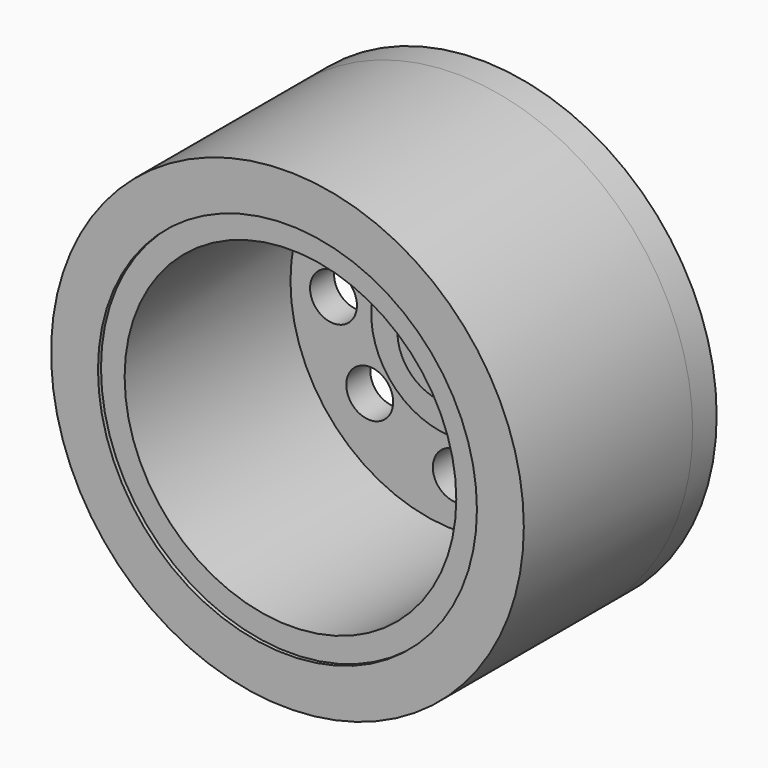
from build123d import *

# Parameters (mm, degrees)
F0_R      = 16.002
F1_DEPTH  = 2.032
F3_R      = 12.827
F3_R_2    = 11.2268
F4_DEPTH  = 0.254
F2_R      = 1.5875
F5_DEPTH  = 2.032
F6_R      = 5.55625
F7_DEPTH  = 0.254
F8_R      = 3.175
F9_DEPTH  = 0.762
F10_R     = 0.381
F11_DEPTH = 0.508
F12_DEPTH = 14.2875


with BuildPart() as f1:
    # F0 (on Front) → F1 (new body)
    with BuildSketch(Plane.XZ):
        Circle(F0_R)
    extrude(amount=-F1_DEPTH)

    # F3 (on face) → F4 (cut)
    with BuildSketch(Plane.XZ):
        Circle(F3_R)
        Circle(F3_R_2, mode=Mode.SUBTRACT)
    extrude(amount=-F4_DEPTH, mode=Mode.SUBTRACT)

    # F2 (on face) → F5 (cut)
    with BuildSketch(Plane.XZ):
        with Locations((0, -7.9695228487)):
            Circle(F2_R)
        with Locations((-5.8604669757, -4.9584284425)):
            Circle(F2_R)
        with BuildLine():
            Line((-6.7264510825, 0), (-9.9014510825, 0))
            ThreePointArc((-9.9014510825, 0), (-8.3139510825, -1.5875), (-6.7264510825, 0))
        make_face()
        with BuildLine():
            ThreePointArc((-6.7264510825, 0), (-8.3139510825, 1.5875), (-9.9014510825, 0))
            Line((-9.9014510825, 0), (-6.7264510825, 0))
        make_face()
        with Locations((-5.4118158296, 5.3960969672)):
            Circle(F2_R)
        with Locations((0, 7.9223643988)):
            Circle(F2_R)
        with Locations((5.3672702052, 5.5701895617)):
            Circle(F2_R)
        with BuildLine():
            Line((6.2692415476, 0), (9.4442415476, 0))
            ThreePointArc((9.4442415476, 0), (7.8567415476, 1.5875), (6.2692415476, 0))
        make_face()
        with BuildLine():
            ThreePointArc((6.2692415476, 0), (7.8567415476, -1.5875), (9.4442415476, 0))
            Line((9.4442415476, 0), (6.2692415476, 0))
        make_face()
        with Locations((5.607039202, -5.3108036518)):
            Circle(F2_R)
    extrude(amount=-F5_DEPTH, mode=Mode.SUBTRACT)

    # F6 (on face) → F7 (join)
    with BuildSketch(Plane.XZ):
        Circle(F6_R)
    extrude(amount=F7_DEPTH)

    # F8 (on face) → F9 (join)
    with BuildSketch(Plane.XZ.offset(0.254)):
        Circle(F8_R)
    extrude(amount=F9_DEPTH)

    # F10 (on face) → F11 (join)
    with BuildSketch(Plane.XZ.offset(1.016)):
        with Locations((-1.543693963, 0)):
            Circle(F10_R)
        with Locations((-0.9479312136, 0.8902023229)):
            Circle(F10_R)
        with Locations((0, 1.2909881785)):
            Circle(F10_R)
        with Locations((0.9910054901, 0.9551946484)):
            Circle(F10_R)
        with Locations((1.4676158223, 0)):
            Circle(F10_R)
        with Locations((1.0343337624, -0.9079179104)):
            Circle(F10_R)
        with Locations((0, -1.3411998874)):
            Circle(F10_R)
        with Locations((-1.0887479328, -0.9079179104)):
            Circle(F10_R)
    extrude(amount=F11_DEPTH)

    # F12 (add): faces of the model
    f12_faces = [f1.faces().sort_by_distance(p)[0] for p in [
        (-15.5493950915, 0, 0),
        (-12.4641976527, 0.254, 0),
    ]]
    extrude(f12_faces, amount=F12_DEPTH)


solid = f1.part
